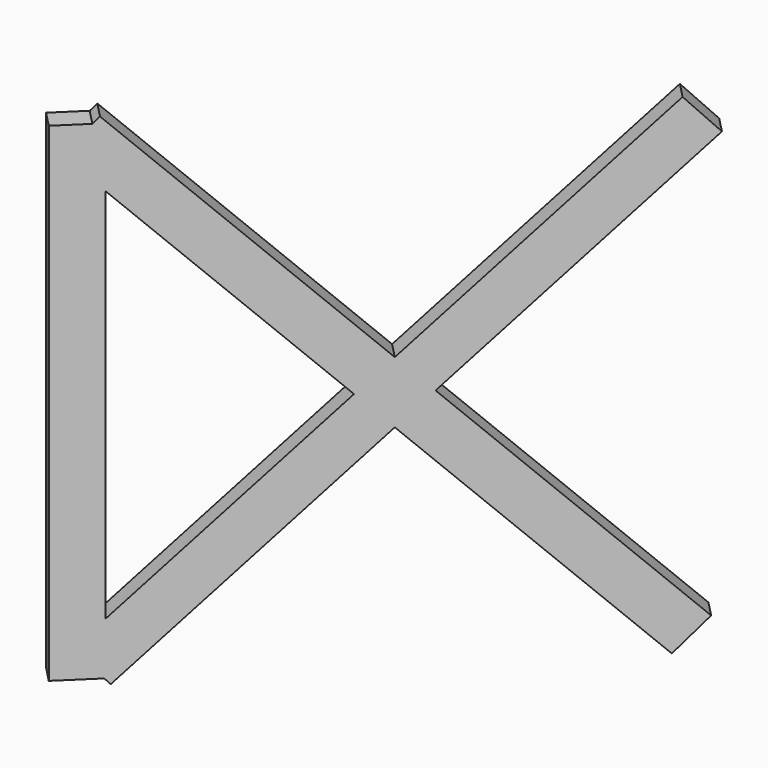
from build123d import *

# Parameters (mm, degrees)
BOX241_W                  = 0.5
BOX241_H                  = 1
BOX241_DEPTH              = 15
BOX241_ROLL_ANGLE         = 46
BOX242_W                  = 0.5
BOX242_H                  = 1
BOX242_DEPTH              = 15
BOX242_ROLL_ANGLE         = -46
BOX240_W                  = 0.5
BOX240_H                  = 1
BOX240_DEPTH              = 11
FUSION023_PLACEMENT_ANGLE = 45.9


with BuildPart() as cubo241:
    # Box241 → Box241 (new body)
    with BuildSketch(Plane.XY):
        with Locations((0.25, 0.5)):
            Rectangle(BOX241_W, BOX241_H)
    extrude(amount=BOX241_DEPTH)


with BuildPart() as cubo241_1:
    # Box241 roll: moved
    add(cubo241.part.rotate(Axis((0, 0, 0), (1, 0, 0)), BOX241_ROLL_ANGLE))


with BuildPart() as cubo241_2:
    # Box241 placement: moved
    add(cubo241_1.part.moved(Location((0, 11, 0.5))))


with BuildPart() as cubo242:
    # Box242 → Box242 (new body)
    with BuildSketch(Plane.XY):
        with Locations((0.25, 0.5)):
            Rectangle(BOX242_W, BOX242_H)
    extrude(amount=BOX242_DEPTH)


with BuildPart() as cubo242_1:
    # Box242 roll: moved
    add(cubo242.part.rotate(Axis((0, 0, 0), (1, 0, 0)), BOX242_ROLL_ANGLE))


with BuildPart() as cubo242_2:
    # Box242 placement: moved
    add(cubo242_1.part.moved(Location((0, 0.4, 1.1))))


with BuildPart() as fusion023:
    # Box240 → Box240 (new body)
    with BuildSketch(Plane.XY.offset(0.5)):
        with Locations((0.25, 0.5)):
            Rectangle(BOX240_W, BOX240_H)
    extrude(amount=BOX240_DEPTH)

    # Fusion023: union Cubo241, Cubo242
    add(cubo241_2.part)
    add(cubo242_2.part)


with BuildPart() as fusion023_1:
    # Fusion023 placement: moved
    add(fusion023.part.moved(Location((-171.4, 159.89, 0))).rotate(Axis((-171.4, 159.89, 0), (0, 0, -1)), FUSION023_PLACEMENT_ANGLE))


solid = fusion023_1.part
